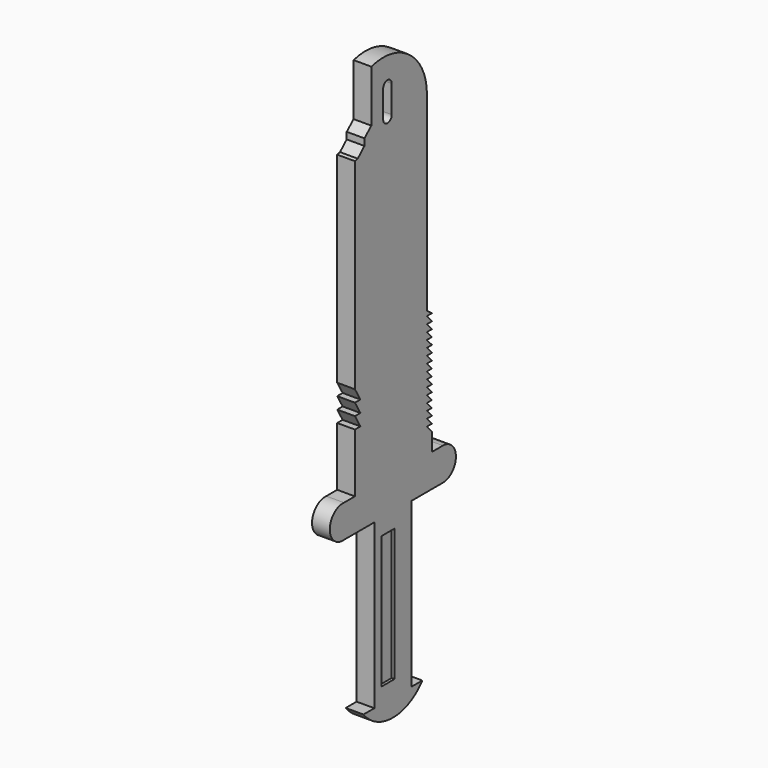
from build123d import *

# Parameters (mm, degrees)
F0_W     = 1.180834
F0_H     = 9.713203
F1_DEPTH = 1.3
F2_W     = 1.340505
F2_H     = 10.058258
F3_DEPTH = 1.09


with BuildPart() as f1:
    # F0 (on Right) → F1 (new body)
    with BuildSketch(Plane.YZ):
        with BuildLine():
            Line((-42.517653, 24.340816), (-45.919107, 24.340582))
            Line((-45.919107, 24.340582), (-45.919107, 12.343948))
            Line((-45.919107, 12.343948), (-42.517653, 12.343948))
            Line((-42.517653, 12.343948), (-42.517653, 14.488947))
            Line((-42.517653, 14.488947), (-42.917089, 14.488947))
            ThreePointArc((-42.917089, 14.488947), (-43.065188, 14.637046), (-42.917089, 14.785144))
            ThreePointArc((-42.917089, 14.785144), (-43.067147, 14.935202), (-42.917089, 15.08526))
            ThreePointArc((-42.917089, 15.08526), (-43.067148, 15.235318), (-42.917089, 15.385376))
            ThreePointArc((-42.917089, 15.385376), (-43.067147, 15.535434), (-42.917089, 15.685491))
            Line((-42.917089, 15.685491), (-42.517653, 15.685491))
            Line((-42.517653, 15.685491), (-42.517653, 15.985669))
            Line((-42.517653, 15.985669), (-42.917089, 15.985669))
            ThreePointArc((-42.917089, 15.985669), (-43.066833, 16.135412), (-42.917089, 16.285156))
            ThreePointArc((-42.917089, 16.285156), (-43.06723, 16.435296), (-42.917089, 16.585436))
            ThreePointArc((-42.917089, 16.585436), (-43.066944, 16.735291), (-42.917089, 16.885145))
            ThreePointArc((-42.917089, 16.885145), (-43.066944, 17.034999), (-42.917089, 17.184854))
            ThreePointArc((-42.917089, 17.184854), (-43.066939, 17.334703), (-42.917089, 17.484553))
            ThreePointArc((-42.917089, 17.484553), (-43.066944, 17.634407), (-42.917089, 17.784262))
            ThreePointArc((-42.917089, 17.784262), (-43.06694, 17.934112), (-42.917089, 18.083963))
            ThreePointArc((-42.917089, 18.083963), (-43.067242, 18.234115), (-42.917089, 18.384267))
            ThreePointArc((-42.917089, 18.384267), (-43.067037, 18.534215), (-42.917089, 18.684162))
            ThreePointArc((-42.917089, 18.684162), (-43.067005, 18.834078), (-42.917089, 18.983994))
            ThreePointArc((-42.917089, 18.983994), (-43.067149, 19.134053), (-42.917089, 19.284112))
            ThreePointArc((-42.917089, 19.284112), (-43.067628, 19.434651), (-42.917089, 19.58519))
            ThreePointArc((-42.917089, 19.58519), (-43.067149, 19.735249), (-42.917089, 19.885308))
            ThreePointArc((-42.917089, 19.885308), (-43.067196, 20.035415), (-42.917089, 20.185521))
            ThreePointArc((-42.917089, 20.185521), (-43.067148, 20.335579), (-42.917089, 20.485638))
            ThreePointArc((-42.917089, 20.485638), (-43.067148, 20.635696), (-42.917089, 20.785754))
            ThreePointArc((-42.917089, 20.785754), (-43.067148, 20.935812), (-42.917089, 21.085871))
            ThreePointArc((-42.917089, 21.085871), (-43.067302, 21.236084), (-42.917089, 21.386296))
            ThreePointArc((-42.917089, 21.386296), (-43.067148, 21.536355), (-42.917089, 21.686413))
            ThreePointArc((-42.917089, 21.686413), (-43.067147, 21.83647), (-42.917089, 21.986527))
            ThreePointArc((-42.917089, 21.986527), (-43.067058, 22.136496), (-42.917089, 22.286465))
            ThreePointArc((-42.917089, 22.286465), (-43.067286, 22.436662), (-42.917089, 22.586859))
            ThreePointArc((-42.917089, 22.586859), (-43.066941, 22.736711), (-42.917089, 22.886562))
            ThreePointArc((-42.917089, 22.886562), (-43.067068, 23.03654), (-42.917089, 23.186519))
            Line((-42.917089, 23.186519), (-42.517653, 23.186519))
            Line((-42.517653, 23.186519), (-42.517653, 24.340816))
        make_face()
        with Locations((-44.665031, 18.329918)):
            Rectangle(F0_W, F0_H, mode=Mode.SUBTRACT)
        Polygon((-48.698063, 24.340582), (-45.919107, 24.340582), (-42.517653, 24.340816), (-39.643239, 24.340816), (-39.643239, 26.738991), (-40.643002, 26.738991), (-47.697753, 26.738757), (-48.698142, 26.738757), align=None)
        with BuildLine():
            Line((-42.517653, 12.343948), (-45.919107, 12.343948))
            Line((-45.919107, 12.343948), (-46.918346, 12.343948))
            ThreePointArc((-46.918346, 12.343948), (-44.21838, 11.039016), (-41.518413, 12.343948))
            Line((-41.518413, 12.343948), (-42.517653, 12.343948))
        make_face()
        with BuildLine():
            ThreePointArc((-48.698142, 26.738757), (-50.002455, 25.539626), (-48.698063, 24.340582))
            Line((-48.698063, 24.340582), (-48.698142, 26.738757))
        make_face()
        with BuildLine():
            Line((-42.517653, 22.886562), (-42.517653, 23.186519))
            Line((-42.517653, 23.186519), (-42.917089, 23.186519))
            ThreePointArc((-42.917089, 23.186519), (-43.067068, 23.03654), (-42.917089, 22.886562))
            Line((-42.917089, 22.886562), (-42.517653, 22.886562))
        make_face()
        with BuildLine():
            Line((-39.643239, 26.738991), (-39.643239, 24.340816))
            ThreePointArc((-39.643239, 24.340816), (-38.444152, 25.539904), (-39.643239, 26.738991))
        make_face()
        with BuildLine():
            Line((-42.917089, 14.488947), (-42.517653, 14.488947))
            Line((-42.517653, 14.488947), (-42.517653, 14.785144))
            Line((-42.517653, 14.785144), (-42.917089, 14.785144))
            ThreePointArc((-42.917089, 14.785144), (-43.065188, 14.637046), (-42.917089, 14.488947))
        make_face()
        with BuildLine():
            Line((-42.517653, 22.586859), (-42.517653, 22.886562))
            Line((-42.517653, 22.886562), (-42.917089, 22.886562))
            ThreePointArc((-42.917089, 22.886562), (-43.066941, 22.736711), (-42.917089, 22.586859))
            Line((-42.917089, 22.586859), (-42.517653, 22.586859))
        make_face()
        Polygon((-47.697753, 31.049623), (-47.697753, 26.738757), (-40.643002, 26.738991), (-40.643002, 28.051442), (-41.102504, 28.559806), (-40.643002, 28.559806), (-41.102504, 29.068169), (-40.643002, 29.068169), (-41.102504, 29.576532), (-40.643002, 29.576532), (-41.102504, 30.084895), (-40.643002, 30.084895), (-41.102504, 30.593258), (-40.643002, 30.593258), (-41.102504, 31.101622), (-40.643002, 31.101622), (-41.102504, 31.609985), (-40.643002, 31.609985), (-41.102504, 32.118348), (-40.643002, 32.118348), (-41.102504, 32.626711), (-40.643002, 32.626711), (-41.102504, 33.135074), (-40.643002, 33.135074), (-41.102504, 33.643438), (-40.643002, 33.643438), (-41.102504, 34.151801), (-40.643002, 34.151801), (-41.102504, 34.660164), (-40.643002, 34.660164), (-41.102506, 35.168528), (-40.643002, 35.168528), (-41.09862, 35.692447), (-40.643002, 35.68899), (-41.102506, 36.046506), (-42.228938, 36.922926), (-42.228938, 47.611012), (-42.228938, 48.368792), (-42.228938, 49.656781), (-42.228938, 50.742287), (-42.82525, 51.877759), (-43.982454, 52.871555), (-44.859211, 53.49781), (-45.443715, 53.858385), (-46.195191, 53.858385), (-46.195191, 50.859235), (-46.195191, 50.051756), (-46.82713, 49.490034), (-46.82713, 48.998524), (-47.441577, 48.428061), (-47.697753, 48.368792), (-47.697753, 33.65064), (-47.198169, 32.784375), (-47.697753, 32.784375), (-47.198169, 31.915889), (-47.697753, 31.915889), (-47.198169, 31.049623), align=None)
        with BuildLine():
            ThreePointArc((-44.324707, 50.000324), (-44.717461, 49.60757), (-45.110214, 50.000324))
            Line((-45.110214, 50.000324), (-45.110214, 51.999949))
            ThreePointArc((-45.110214, 51.999949), (-44.717461, 52.392702), (-44.324707, 51.999949))
            Line((-44.324707, 51.999949), (-44.324707, 50.000324))
        make_face(mode=Mode.SUBTRACT)
        with BuildLine():
            Line((-42.917089, 14.785144), (-42.517653, 14.785144))
            Line((-42.517653, 14.785144), (-42.517653, 15.08526))
            Line((-42.517653, 15.08526), (-42.917089, 15.08526))
            ThreePointArc((-42.917089, 15.08526), (-43.067147, 14.935202), (-42.917089, 14.785144))
        make_face()
        with BuildLine():
            Line((-42.517653, 22.286465), (-42.517653, 22.586859))
            Line((-42.517653, 22.586859), (-42.917089, 22.586859))
            ThreePointArc((-42.917089, 22.586859), (-43.067286, 22.436662), (-42.917089, 22.286465))
            Line((-42.917089, 22.286465), (-42.517653, 22.286465))
        make_face()
        with BuildLine():
            Line((-42.917089, 15.08526), (-42.517653, 15.08526))
            Line((-42.517653, 15.08526), (-42.517653, 15.385376))
            Line((-42.517653, 15.385376), (-42.917089, 15.385376))
            ThreePointArc((-42.917089, 15.385376), (-43.067148, 15.235318), (-42.917089, 15.08526))
        make_face()
        with BuildLine():
            Line((-42.517653, 21.986527), (-42.517653, 22.286465))
            Line((-42.517653, 22.286465), (-42.917089, 22.286465))
            ThreePointArc((-42.917089, 22.286465), (-43.067058, 22.136496), (-42.917089, 21.986527))
            Line((-42.917089, 21.986527), (-42.517653, 21.986527))
        make_face()
        with BuildLine():
            Line((-42.917089, 15.385376), (-42.517653, 15.385376))
            Line((-42.517653, 15.385376), (-42.517653, 15.685491))
            Line((-42.517653, 15.685491), (-42.917089, 15.685491))
            ThreePointArc((-42.917089, 15.685491), (-43.067147, 15.535434), (-42.917089, 15.385376))
        make_face()
        with BuildLine():
            Line((-42.517653, 21.686413), (-42.517653, 21.986527))
            Line((-42.517653, 21.986527), (-42.917089, 21.986527))
            ThreePointArc((-42.917089, 21.986527), (-43.067147, 21.83647), (-42.917089, 21.686413))
            Line((-42.917089, 21.686413), (-42.517653, 21.686413))
        make_face()
        with BuildLine():
            Line((-42.517653, 21.386296), (-42.517653, 21.686413))
            Line((-42.517653, 21.686413), (-42.917089, 21.686413))
            ThreePointArc((-42.917089, 21.686413), (-43.067148, 21.536355), (-42.917089, 21.386296))
            Line((-42.917089, 21.386296), (-42.517653, 21.386296))
        make_face()
        with BuildLine():
            Line((-42.917089, 15.985669), (-42.517653, 15.985669))
            Line((-42.517653, 15.985669), (-42.517653, 16.285156))
            Line((-42.517653, 16.285156), (-42.917089, 16.285156))
            ThreePointArc((-42.917089, 16.285156), (-43.066833, 16.135412), (-42.917089, 15.985669))
        make_face()
        with BuildLine():
            Line((-42.517653, 21.085871), (-42.517653, 21.386296))
            Line((-42.517653, 21.386296), (-42.917089, 21.386296))
            ThreePointArc((-42.917089, 21.386296), (-43.067302, 21.236084), (-42.917089, 21.085871))
            Line((-42.917089, 21.085871), (-42.517653, 21.085871))
        make_face()
        with BuildLine():
            Line((-42.917089, 16.285156), (-42.517653, 16.285156))
            Line((-42.517653, 16.285156), (-42.517653, 16.585436))
            Line((-42.517653, 16.585436), (-42.917089, 16.585436))
            ThreePointArc((-42.917089, 16.585436), (-43.06723, 16.435296), (-42.917089, 16.285156))
        make_face()
        with BuildLine():
            Line((-42.517653, 20.785754), (-42.517653, 21.085871))
            Line((-42.517653, 21.085871), (-42.917089, 21.085871))
            ThreePointArc((-42.917089, 21.085871), (-43.067148, 20.935812), (-42.917089, 20.785754))
            Line((-42.917089, 20.785754), (-42.517653, 20.785754))
        make_face()
        with BuildLine():
            Line((-42.917089, 16.585436), (-42.517653, 16.585436))
            Line((-42.517653, 16.585436), (-42.517653, 16.885145))
            Line((-42.517653, 16.885145), (-42.917089, 16.885145))
            ThreePointArc((-42.917089, 16.885145), (-43.066944, 16.735291), (-42.917089, 16.585436))
        make_face()
        with BuildLine():
            Line((-42.517653, 20.485638), (-42.517653, 20.785754))
            Line((-42.517653, 20.785754), (-42.917089, 20.785754))
            ThreePointArc((-42.917089, 20.785754), (-43.067148, 20.635696), (-42.917089, 20.485638))
            Line((-42.917089, 20.485638), (-42.517653, 20.485638))
        make_face()
        with BuildLine():
            Line((-42.917089, 16.885145), (-42.517653, 16.885145))
            Line((-42.517653, 16.885145), (-42.517653, 17.184854))
            Line((-42.517653, 17.184854), (-42.917089, 17.184854))
            ThreePointArc((-42.917089, 17.184854), (-43.066944, 17.034999), (-42.917089, 16.885145))
        make_face()
        with BuildLine():
            Line((-42.517653, 20.185521), (-42.517653, 20.485638))
            Line((-42.517653, 20.485638), (-42.917089, 20.485638))
            ThreePointArc((-42.917089, 20.485638), (-43.067148, 20.335579), (-42.917089, 20.185521))
            Line((-42.917089, 20.185521), (-42.517653, 20.185521))
        make_face()
        with BuildLine():
            Line((-42.917089, 17.184854), (-42.517653, 17.184854))
            Line((-42.517653, 17.184854), (-42.517653, 17.484553))
            Line((-42.517653, 17.484553), (-42.917089, 17.484553))
            ThreePointArc((-42.917089, 17.484553), (-43.066939, 17.334703), (-42.917089, 17.184854))
        make_face()
        with BuildLine():
            Line((-42.517653, 19.885308), (-42.517653, 20.185521))
            Line((-42.517653, 20.185521), (-42.917089, 20.185521))
            ThreePointArc((-42.917089, 20.185521), (-43.067196, 20.035415), (-42.917089, 19.885308))
            Line((-42.917089, 19.885308), (-42.517653, 19.885308))
        make_face()
        with BuildLine():
            Line((-42.917089, 17.484553), (-42.517653, 17.484553))
            Line((-42.517653, 17.484553), (-42.517653, 17.784262))
            Line((-42.517653, 17.784262), (-42.917089, 17.784262))
            ThreePointArc((-42.917089, 17.784262), (-43.066944, 17.634407), (-42.917089, 17.484553))
        make_face()
        with BuildLine():
            Line((-42.517653, 19.58519), (-42.517653, 19.885308))
            Line((-42.517653, 19.885308), (-42.917089, 19.885308))
            ThreePointArc((-42.917089, 19.885308), (-43.067149, 19.735249), (-42.917089, 19.58519))
            Line((-42.917089, 19.58519), (-42.517653, 19.58519))
        make_face()
        with BuildLine():
            Line((-42.917089, 17.784262), (-42.517653, 17.784262))
            Line((-42.517653, 17.784262), (-42.517653, 18.083963))
            Line((-42.517653, 18.083963), (-42.917089, 18.083963))
            ThreePointArc((-42.917089, 18.083963), (-43.06694, 17.934112), (-42.917089, 17.784262))
        make_face()
        with BuildLine():
            Line((-42.517653, 19.284112), (-42.517653, 19.58519))
            Line((-42.517653, 19.58519), (-42.917089, 19.58519))
            ThreePointArc((-42.917089, 19.58519), (-43.067628, 19.434651), (-42.917089, 19.284112))
            Line((-42.917089, 19.284112), (-42.517653, 19.284112))
        make_face()
        with BuildLine():
            Line((-42.917089, 18.083963), (-42.517653, 18.083963))
            Line((-42.517653, 18.083963), (-42.517653, 18.384267))
            Line((-42.517653, 18.384267), (-42.917089, 18.384267))
            ThreePointArc((-42.917089, 18.384267), (-43.067242, 18.234115), (-42.917089, 18.083963))
        make_face()
        with BuildLine():
            Line((-42.517653, 18.983994), (-42.517653, 19.284112))
            Line((-42.517653, 19.284112), (-42.917089, 19.284112))
            ThreePointArc((-42.917089, 19.284112), (-43.067149, 19.134053), (-42.917089, 18.983994))
            Line((-42.917089, 18.983994), (-42.517653, 18.983994))
        make_face()
        with BuildLine():
            Line((-42.917089, 18.384267), (-42.517653, 18.384267))
            Line((-42.517653, 18.384267), (-42.517653, 18.684162))
            Line((-42.517653, 18.684162), (-42.917089, 18.684162))
            ThreePointArc((-42.917089, 18.684162), (-43.067037, 18.534215), (-42.917089, 18.384267))
        make_face()
        with BuildLine():
            Line((-42.517653, 18.684162), (-42.517653, 18.983994))
            Line((-42.517653, 18.983994), (-42.917089, 18.983994))
            ThreePointArc((-42.917089, 18.983994), (-43.067005, 18.834078), (-42.917089, 18.684162))
            Line((-42.917089, 18.684162), (-42.517653, 18.684162))
        make_face()
        with BuildLine():
            ThreePointArc((-41.102506, 49.991072), (-42.686453, 53.192062), (-46.195191, 53.858385))
            Line((-46.195191, 53.858385), (-45.443715, 53.858385))
            Line((-45.443715, 53.858385), (-44.859211, 53.49781))
            Line((-44.859211, 53.49781), (-43.982454, 52.871555))
            Line((-43.982454, 52.871555), (-42.82525, 51.877759))
            Line((-42.82525, 51.877759), (-42.228938, 50.742287))
            Line((-42.228938, 50.742287), (-42.228938, 49.656781))
            Line((-42.228938, 49.656781), (-42.228938, 48.368792))
            Line((-42.228938, 48.368792), (-42.228938, 47.611012))
            Line((-42.228938, 47.611012), (-42.228938, 36.922926))
            Line((-42.228938, 36.922926), (-41.102506, 36.046506))
            Line((-41.102506, 36.046506), (-41.102506, 49.991072))
        make_face()
    extrude(amount=F1_DEPTH)

    # F2 (on Right) → F3 (join)
    with BuildSketch(Plane.YZ):
        with Locations((-44.653972, 18.316656)):
            Rectangle(F2_W, F2_H)
    extrude(amount=F3_DEPTH)


solid = f1.part
